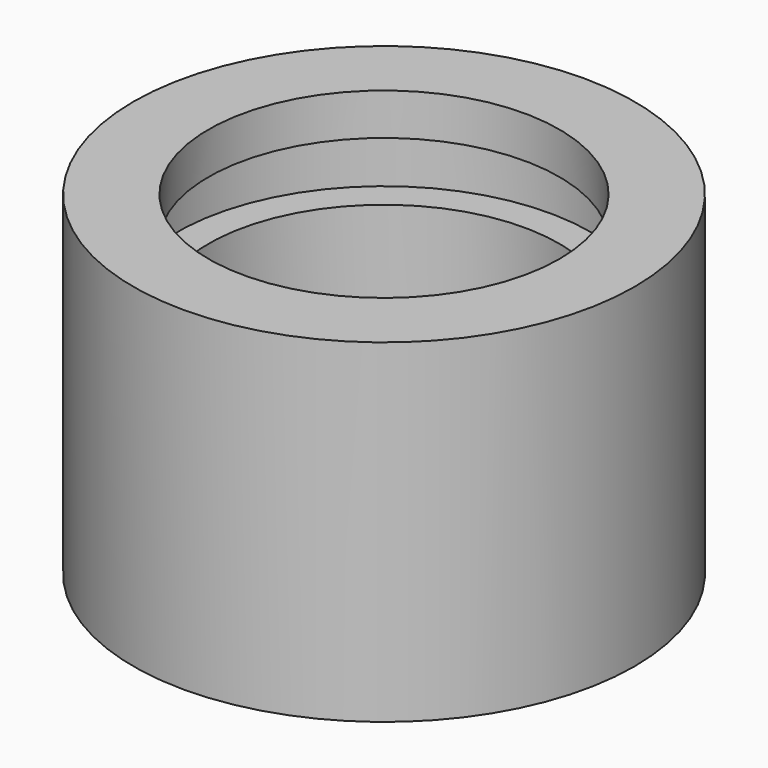
from build123d import *

# Parameters (mm, degrees)
F0_R     = 9.525
F1_DEPTH = 12.7
F2_R     = 6.6675
F3_DEPTH = 9.525
F4_R     = 2.59969
F5_DEPTH = 25.4
F6_W     = 1.1938
F6_H     = 2.2352


with BuildPart() as f1:
    # F0 (on Top) → F1 (new body)
    with BuildSketch(Plane.XY):
        Circle(F0_R)
    extrude(amount=F1_DEPTH)

    # F2 (on face) → F3 (cut)
    with BuildSketch(Plane.XY.offset(12.7)):
        Circle(F2_R)
    extrude(amount=-F3_DEPTH, mode=Mode.SUBTRACT)

    # F4 (on face) → F5 (cut)
    with BuildSketch(Plane.XY.offset(3.175)):
        Circle(F4_R)
    extrude(amount=-F5_DEPTH, mode=Mode.SUBTRACT)

    # F6 (on Front) → F7 (revolve, cut)
    with BuildSketch(Plane.XZ):
        with Locations((7.2644, 9.9949)):
            Rectangle(F6_W, F6_H)
    revolve(axis=Axis((0, 0, 19.022157), (0, 0, 1)), mode=Mode.SUBTRACT)


solid = f1.part
